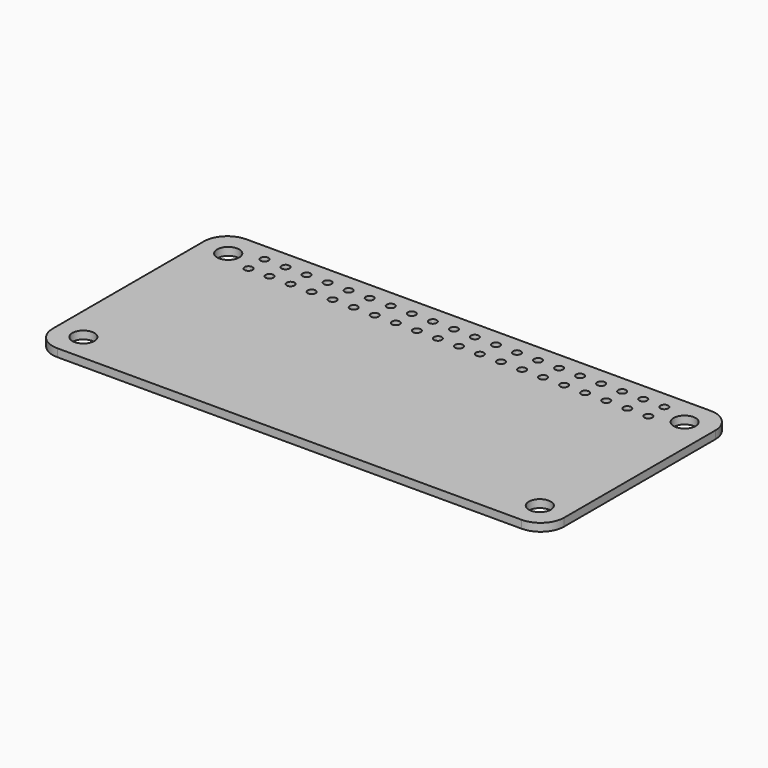
from build123d import *

# Parameters (mm, degrees)
SKETCH_W                        = 65
SKETCH_H                        = 30
PAD_DEPTH                       = 1
FILLET_R                        = 3
SKETCH001_R                     = 1.4
POCKET_DEPTH                    = 5
LINEARPATTERN_COUNT             = 2
LINEARPATTERN_PITCH             = 58
LINEARPATTERN001_COUNT          = 2
LINEARPATTERN001_PITCH          = 23
SKETCH001_LINEARPATTERN002_2_R  = 1.4
POCKET_LINEARPATTERN002_2_DEPTH = 5
LINEARPATTERN003_COUNT          = 2
LINEARPATTERN003_PITCH          = 23
SKETCH003_R                     = 0.5
POCKET001_DEPTH                 = 5
LINEARPATTERN004_COUNT          = 20
LINEARPATTERN004_PITCH          = 2.673684


with BuildPart() as part:
    # Sketch → Pad (new body)
    with BuildSketch(Plane.XY):
        with Locations((32.5, 15)):
            Rectangle(SKETCH_W, SKETCH_H)
    extrude(amount=PAD_DEPTH)

    # Fillet
    fillet_edges = [part.edges().sort_by_distance(p)[0] for p in [
        (0, 0, 0.5),
        (65, 30, 0.5),
        (0, 30, 0.5),
        (65, 0, 0.5),
    ]]
    fillet(fillet_edges, radius=FILLET_R)

    # Sketch001 (on Face5 of Fillet) → Pocket (cut)
    with BuildSketch(Plane.XY.offset(1)):
        with Locations((3.5, 3.5)):
            Circle(SKETCH001_R)
    pocket = extrude(amount=-POCKET_DEPTH, mode=Mode.SUBTRACT)

    # LinearPattern: Pocket ×2
    with Locations(*[(i * LINEARPATTERN_PITCH, 0, 0) for i in range(1, LINEARPATTERN_COUNT)]):
        add(pocket, mode=Mode.SUBTRACT)

    # LinearPattern001: Pocket ×2
    with Locations(*[(0, i * LINEARPATTERN001_PITCH, 0) for i in range(1, LINEARPATTERN001_COUNT)]):
        add(pocket, mode=Mode.SUBTRACT)

    # Sketch001 LinearPattern002 2 → Pocket LinearPattern002 2 (cut)
    with BuildSketch(Plane(origin=(58, 0, 1), x_dir=(1, 0, 0), z_dir=(0, 0, 1))):
        with Locations((3.5, 3.5)):
            Circle(SKETCH001_LINEARPATTERN002_2_R)
    pocket_linearpattern002_2 = extrude(amount=-POCKET_LINEARPATTERN002_2_DEPTH, mode=Mode.SUBTRACT)

    # LinearPattern003: Pocket, Pocket LinearPattern002 2 ×2
    with Locations(*[(0, i * LINEARPATTERN003_PITCH, 0) for i in range(1, LINEARPATTERN003_COUNT)]):
        add(pocket, mode=Mode.SUBTRACT)
        add(pocket_linearpattern002_2, mode=Mode.SUBTRACT)

    # Sketch003 (on Face5 of MultiTransform) → Pocket001 (cut)
    with BuildSketch(Plane.XY.offset(1)):
        with Locations((7.1, 27.77)):
            Circle(SKETCH003_R)
        with Locations((7.1, 25.23)):
            Circle(SKETCH003_R)
    pocket001 = extrude(amount=-POCKET001_DEPTH, mode=Mode.SUBTRACT)

    # LinearPattern004: Pocket001 ×20
    with Locations(*[(i * LINEARPATTERN004_PITCH, 0, 0) for i in range(1, LINEARPATTERN004_COUNT)]):
        add(pocket001, mode=Mode.SUBTRACT)


solid = part.part
